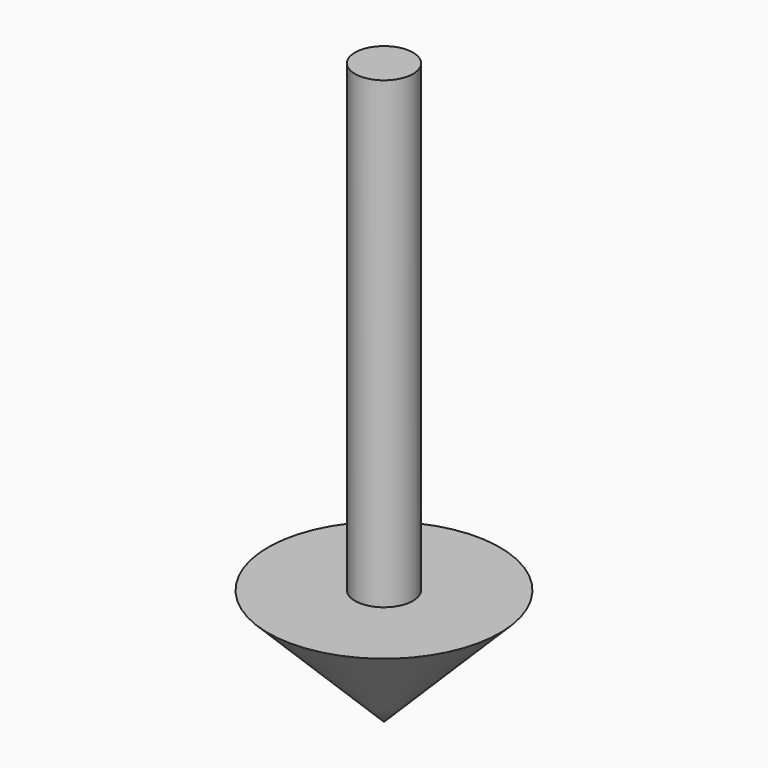
from build123d import *

# Parameters (mm, degrees)
F2_R     = 1.5875
F3_DEPTH = 25.4


with BuildPart() as f1:
    # F0 (on Right) → F1 (revolve)
    with BuildSketch(Plane.YZ):
        Polygon((6.35, -4.346587), (6.35, 2.003413), (0, 2.003413), align=None)
    revolve(axis=Axis((0, 6.35, -1.171587), (0, 0, -1)))

    # F2 (on face) → F3 (join)
    with BuildSketch(Plane.XY.offset(2.003413)):
        with Locations((0, 6.35)):
            Circle(F2_R)
    extrude(amount=F3_DEPTH)


solid = f1.part
